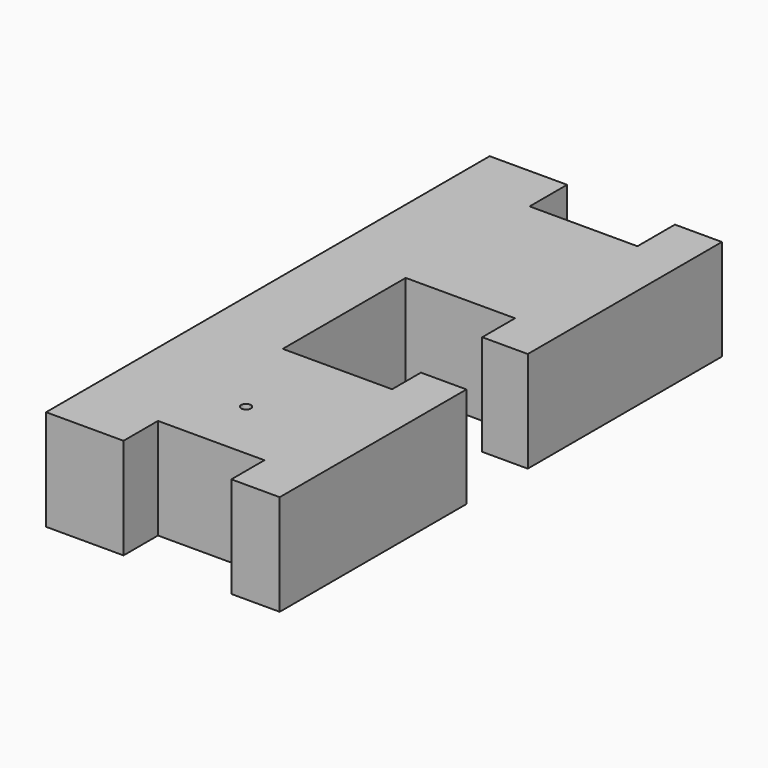
from build123d import *

# Parameters (mm, degrees)
F1_DEPTH = 66.225044
F3_D     = 6.35


with BuildPart() as f1:
    # F0 (on Top) → F1 (new body)
    with BuildSketch(Plane.XY):
        Polygon((-25.4, -180.671632), (-25.4, -152.4), (44.453323, -152.4), (44.453323, -179.549426), (76.2, -179.549426), (76.2, -152.4), (76.2, -50.051928), (76.2, -26.406616), (46.327353, -26.406616), (46.327353, -50.051928), (-25.4, -50.051928), (-25.4, 50.8), (46.327353, 50.8), (46.327353, 23.899645), (76.2, 23.899645), (76.2, 50.8), (76.2, 152.4), (76.2, 183.136821), (45.358822, 183.136821), (45.358822, 152.4), (-25.4, 152.4), (-25.4, 183.136821), (-76.2, 183.136821), (-76.2, 152.4), (-76.2, -152.4), (-76.2, -180.671632), align=None)
    extrude(amount=F1_DEPTH)

    # F3 (through all)
    with Locations(Plane.XY.offset(66.225044)):
        with Locations((0, -111.912012)):
            Hole(F3_D / 2)


solid = f1.part
